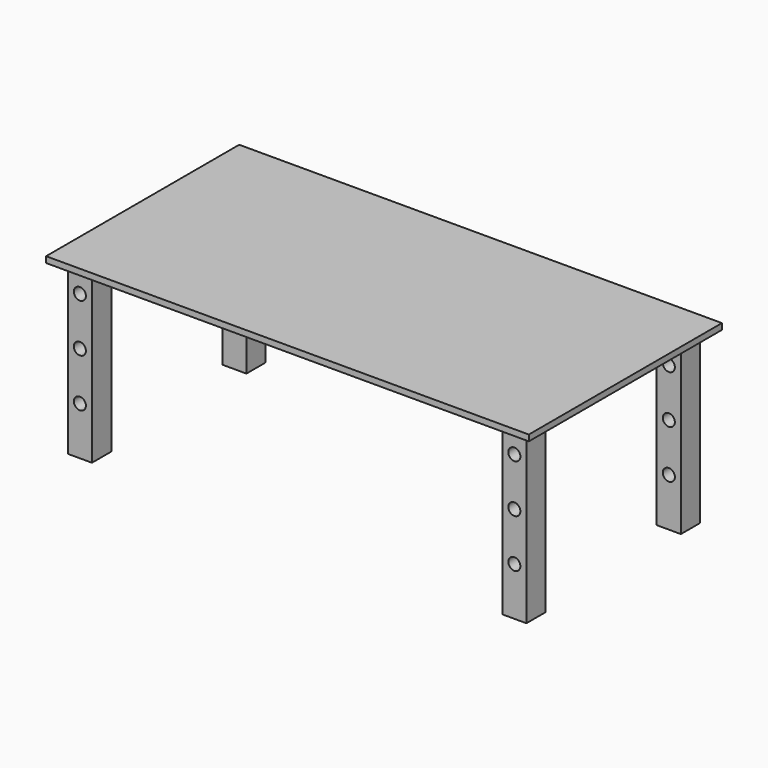
from build123d import *

# Parameters (mm, degrees)
F0_W     = 2000
F0_H     = 1000
F0_W_2   = 100
F0_H_2   = 100
F1_DEPTH = 25
F2_DEPTH = 700
F4_D     = 50
F5_D     = 50
F6_D     = 50
F7_D     = 50


with BuildPart() as f1:
    # F0 (on Top) → F1 (new body)
    with BuildSketch(Plane.XY):
        with Locations((-7.0481244475, 33.1831849229)):
            Rectangle(F0_W, F0_H)
        with Locations((-907.0481244475, -366.8168150771)):
            Rectangle(F0_W_2, F0_H_2, mode=Mode.SUBTRACT)
        with Locations((892.9518755525, -366.8168150771)):
            Rectangle(F0_W_2, F0_H_2, mode=Mode.SUBTRACT)
        with Locations((-907.0481244475, 433.1831849229)):
            Rectangle(F0_W_2, F0_H_2, mode=Mode.SUBTRACT)
        with Locations((892.9518755525, 433.1831849229)):
            Rectangle(F0_W_2, F0_H_2, mode=Mode.SUBTRACT)
        with Locations((-907.0481244475, 433.1831849229)):
            Rectangle(F0_W_2, F0_H_2)
        with Locations((-907.0481244475, -366.8168150771)):
            Rectangle(F0_W_2, F0_H_2)
        with Locations((892.9518755525, 433.1831849229)):
            Rectangle(F0_W_2, F0_H_2)
        with Locations((892.9518755525, -366.8168150771)):
            Rectangle(F0_W_2, F0_H_2)
    extrude(amount=F1_DEPTH)


with BuildPart() as f2:
    # F0 (on Top) → F2 (new body)
    with BuildSketch(Plane.XY):
        with Locations((-907.0481244475, -366.8168150771)):
            Rectangle(F0_W_2, F0_H_2)
    extrude(amount=-F2_DEPTH)

    # F4 (through all)
    with Locations(Plane(origin=(0, 0, 0), x_dir=(1, 0, 0), z_dir=(0, 1, 0))):
        with Locations((-907.0481244475, 100), (-907.0481244475, 300), (-907.0481244475, 500)):
            Hole(F4_D / 2)


with BuildPart() as f2b:
    # F0 (on Top) → F2, piece 2 (new body)
    with BuildSketch(Plane.XY):
        with Locations((-907.0481244475, 433.1831849229)):
            Rectangle(F0_W_2, F0_H_2)
    extrude(amount=-F2_DEPTH)

    # F5 (through all)
    with Locations(Plane.XZ):
        with Locations((-907.0481244475, -100), (-907.0481244475, -300), (-907.0481244475, -500)):
            Hole(F5_D / 2)


with BuildPart() as f2c:
    # F0 (on Top) → F2, piece 3 (new body)
    with BuildSketch(Plane.XY):
        with Locations((892.9518755525, -366.8168150771)):
            Rectangle(F0_W_2, F0_H_2)
    extrude(amount=-F2_DEPTH)

    # F6 (through all)
    with Locations(Plane(origin=(0, 0, 0), x_dir=(1, 0, 0), z_dir=(0, 1, 0))):
        with Locations((892.9518755525, 100), (892.9518755525, 300), (892.9518755525, 500)):
            Hole(F6_D / 2)


with BuildPart() as f2d:
    # F0 (on Top) → F2, piece 4 (new body)
    with BuildSketch(Plane.XY):
        with Locations((892.9518755525, 433.1831849229)):
            Rectangle(F0_W_2, F0_H_2)
    extrude(amount=-F2_DEPTH)

    # F7 (through all)
    with Locations(Plane.XZ):
        with Locations((892.9518755525, -100), (892.9518755525, -300), (892.9518755525, -500)):
            Hole(F7_D / 2)


solid = Compound([f1.part, f2.part, f2b.part, f2c.part, f2d.part])
